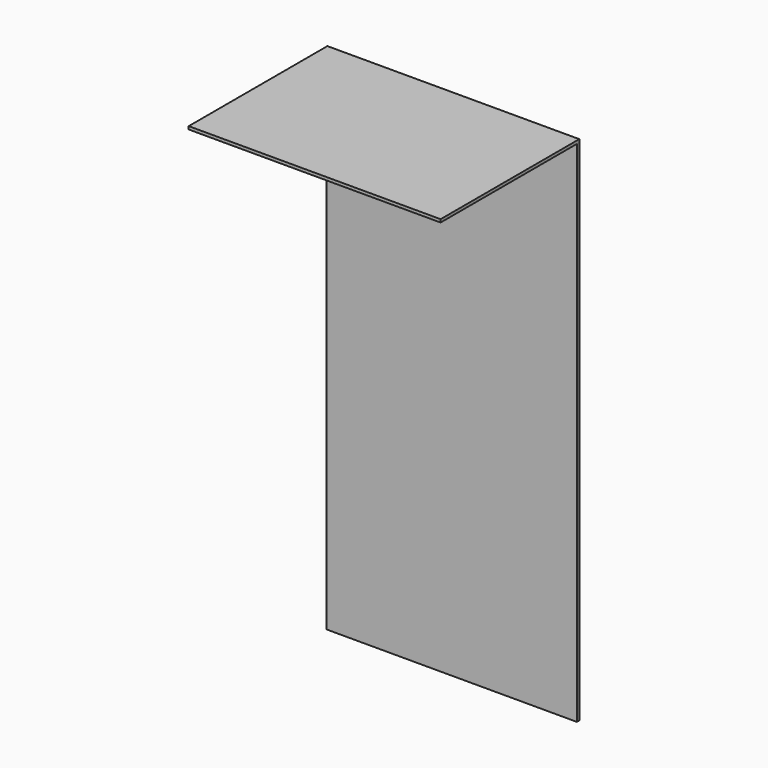
from build123d import *

# Parameters (mm, degrees)
F0_W     = 429.031141
F0_H     = 871.334374
F1_DEPTH = 5.08
F2_W     = 431.302786
F2_H     = 296.81766
F3_DEPTH = 5.08


with BuildPart() as f1:
    # F0 (on Front) → F1 (new body)
    with BuildSketch(Plane.XZ):
        with Locations((-214.51557, -435.667187)):
            Rectangle(F0_W, F0_H)
    extrude(amount=F1_DEPTH)

    # F2 (on Top) → F3 (join)
    with BuildSketch(Plane.XY):
        with Locations((-215.651393, -148.40883)):
            Rectangle(F2_W, F2_H)
    extrude(amount=F3_DEPTH)


solid = f1.part
